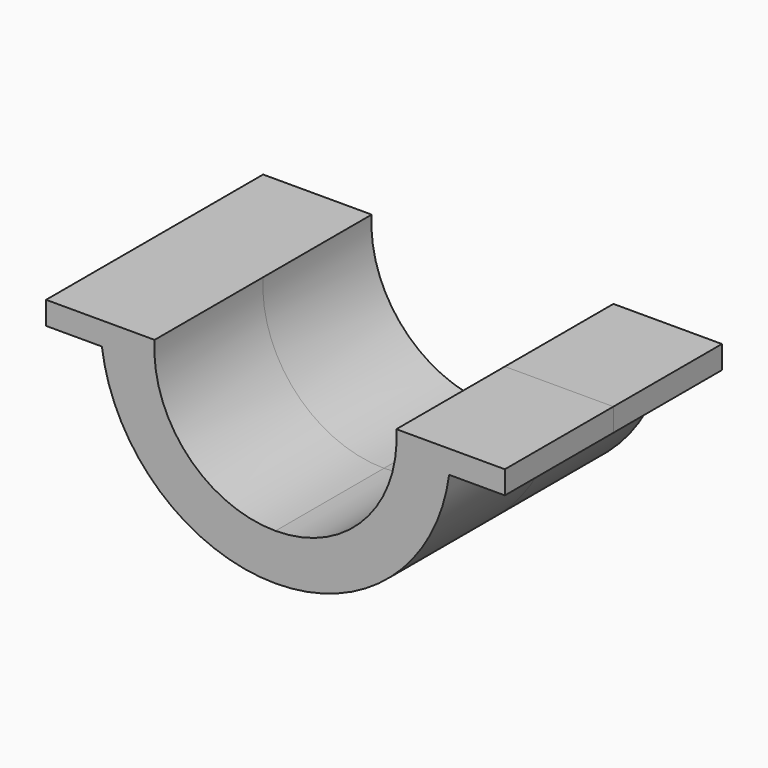
from build123d import *

# Parameters (mm, degrees)
F1_DEPTH = 127


with BuildPart() as f1:
    # F0 (on Front) → F1 (new body, symmetric)
    with BuildSketch(Plane.XZ):
        with BuildLine():
            ThreePointArc((-162.5305334882, -21.5334221721), (-163.5953429484, -10.790104356), (-163.9507931863, 0))
            Line((-163.9507931863, 0), (-214.7507931863, 0))
            Line((-214.7507931863, 0), (-214.7507931863, -21.5334221721))
            Line((-214.7507931863, -21.5334221721), (-162.5305334882, -21.5334221721))
        make_face()
        with BuildLine():
            Line((214.7507931863, 0), (163.9507931863, 0))
            ThreePointArc((163.9507931863, 0), (163.5953429484, -10.790104356), (162.5305334882, -21.5334221721))
            Line((162.5305334882, -21.5334221721), (214.7507931863, -21.5334221721))
            Line((214.7507931863, -21.5334221721), (214.7507931863, 0))
        make_face()
        with BuildLine():
            Line((0, -163.9507931863), (0, -120.6350969457))
            ThreePointArc((0, -120.6350969457), (-77.5674760663, -89.9502762364), (-113.1507931863, -14.504274964))
            Line((-113.1507931863, -14.504274964), (-113.1507931863, -21.5334221721))
            Line((-113.1507931863, -21.5334221721), (-162.5305334882, -21.5334221721))
            ThreePointArc((-162.5305334882, -21.5334221721), (-108.0496204095, -123.3091323291), (0, -163.9507931863))
        make_face()
        with BuildLine():
            ThreePointArc((113.1507931863, -14.504274964), (77.5674760663, -89.9502762364), (0, -120.6350969457))
            Line((0, -120.6350969457), (0, -163.9507931863))
            ThreePointArc((0, -163.9507931863), (108.0496204095, -123.3091323291), (162.5305334882, -21.5334221721))
            Line((162.5305334882, -21.5334221721), (113.1507931863, -21.5334221721))
            Line((113.1507931863, -21.5334221721), (113.1507931863, -14.504274964))
        make_face()
        with BuildLine():
            Line((-113.1507931863, 0), (-163.9507931863, 0))
            ThreePointArc((-163.9507931863, 0), (-163.5953429484, -10.790104356), (-162.5305334882, -21.5334221721))
            Line((-162.5305334882, -21.5334221721), (-113.1507931863, -21.5334221721))
            Line((-113.1507931863, -21.5334221721), (-113.1507931863, -14.504274964))
            ThreePointArc((-113.1507931863, -14.504274964), (-113.3829594637, -7.252137482), (-113.1507931863, 0))
        make_face()
        with BuildLine():
            ThreePointArc((162.5305334882, -21.5334221721), (163.5953429484, -10.790104356), (163.9507931863, 0))
            Line((163.9507931863, 0), (113.1507931863, 0))
            ThreePointArc((113.1507931863, 0), (113.3829594637, -7.252137482), (113.1507931863, -14.504274964))
            Line((113.1507931863, -14.504274964), (113.1507931863, -21.5334221721))
            Line((113.1507931863, -21.5334221721), (162.5305334882, -21.5334221721))
        make_face()
    extrude(amount=F1_DEPTH, both=True)


solid = f1.part
